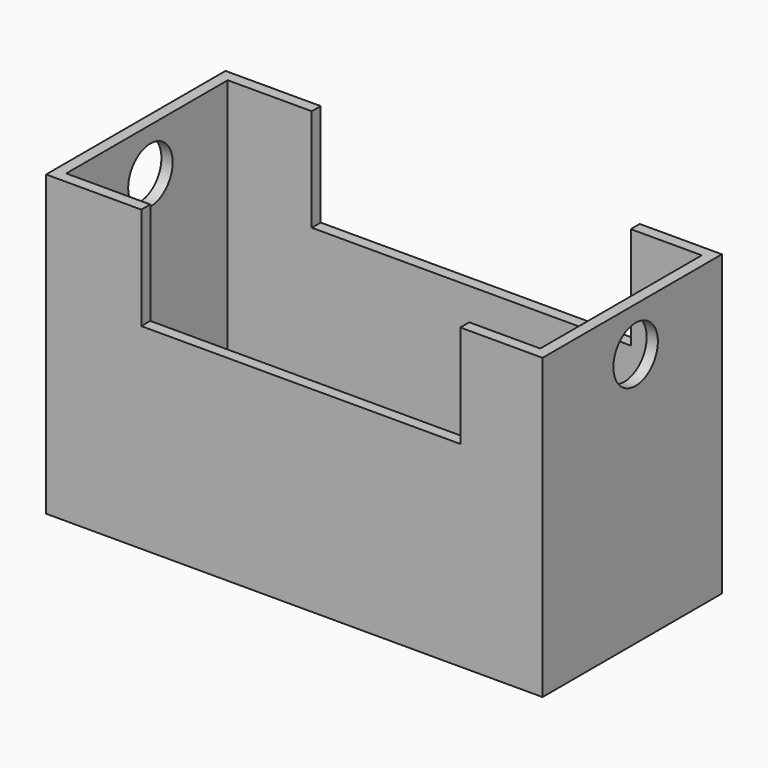
from build123d import *

# Parameters (mm, degrees)
F1_DEPTH = 50.8
F2_T     = -2.54
F3_R     = 6.296308
F4_DEPTH = 322.58


with BuildPart() as f1:
    # F0 (on Front) → F1 (new body)
    with BuildSketch(Plane.XZ):
        Polygon((-25.901856, 44.70605), (-47.471371, 44.70605), (-47.471371, -22.952178), (64.985082, -22.952178), (64.985082, 44.70605), (46.365242, 44.70605), (46.365242, 21.47734), (-25.901856, 21.47734), align=None)
    extrude(amount=F1_DEPTH)

    # F2
    f2_openings = [f1.faces().sort_by_distance(p)[0] for p in [
        (10.231693, -25.4, 21.47734),
        (-36.686613, -25.4, 44.70605),
        (55.675162, -25.4, 44.70605),
        (46.365242, -25.4, 33.091695),
        (-25.901856, -25.4, 33.091695),
    ]]
    offset(amount=F2_T, openings=f2_openings)

    # F3 (on face) → F4 (cut)
    with BuildSketch(Plane(origin=(-47.471371, 0, 0), x_dir=(0, -1, 0), z_dir=(-1, 0, 0))):
        with Locations((24.432799, 34.693193)):
            Circle(F3_R)
    extrude(amount=-F4_DEPTH, mode=Mode.SUBTRACT)


solid = f1.part
